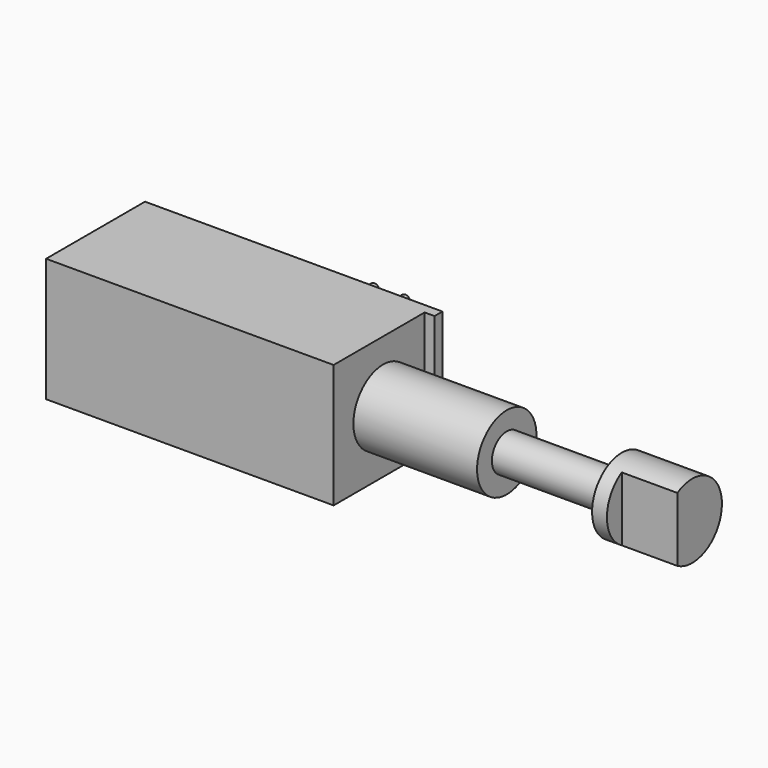
from build123d import *

# Parameters (mm, degrees)
POCKET_DEPTH = 4.5
BOX_W        = 23.25
BOX_H        = 10
BOX_DEPTH    = 10
SKETCH002_R  = 0.4
PAD_DEPTH    = 3.5
SKETCH003_W  = 0.8
SKETCH003_H  = 10
PAD001_DEPTH = 0.8


with BuildPart() as pocket:
    # Sketch → Revolution (revolve)
    with BuildSketch(Plane.XZ):
        Polygon((10, 3), (0, 3), (0, 0), (25, 0), (25, 3), (19.3, 3), (19.3, 1.5), (10, 1.5), align=None)
    revolve(axis=Axis((0, 0, 0), (1, 0, 0)))

    # Sketch001 → Pocket (cut)
    with BuildSketch(Plane(origin=(25, 0, 0), x_dir=(0, 0, 1), z_dir=(1, 0, 0))):
        with BuildLine():
            ThreePointArc((3, 1.5), (0, 4.499985), (-3, 1.5))
            Line((-3, 1.5), (3, 1.5))
        make_face()
    extrude(amount=-POCKET_DEPTH, mode=Mode.SUBTRACT)


with BuildPart() as fusion:
    # Box → Box (new body)
    with BuildSketch(Plane(origin=(-23.25, -5, -5), x_dir=(1, 0, 0), z_dir=(0, 0, 1))):
        with Locations((11.625, 5)):
            Rectangle(BOX_W, BOX_H)
    extrude(amount=BOX_DEPTH)

    # Sketch002 → Pad (new body)
    with BuildSketch(Plane(origin=(-23.25, 5, -5), x_dir=(-1, 0, 0), z_dir=(0, 1, 0))):
        with Locations((-18.25, 7.5)):
            Circle(SKETCH002_R)
        with Locations((-18.25, 5)):
            Circle(SKETCH002_R)
        with Locations((-18.25, 2.5)):
            Circle(SKETCH002_R)
        with Locations((-15.75, 7.5)):
            Circle(SKETCH002_R)
        with Locations((-15.75, 5)):
            Circle(SKETCH002_R)
        with Locations((-15.75, 2.5)):
            Circle(SKETCH002_R)
    extrude(amount=PAD_DEPTH)

    # Sketch003 → Pad001 (new body)
    with BuildSketch(Plane(origin=(0, -5, -5), x_dir=(0, 1, 0), z_dir=(1, 0, 0))):
        with Locations((9.6, 5)):
            Rectangle(SKETCH003_W, SKETCH003_H)
    extrude(amount=PAD001_DEPTH)

    # Fusion: union Pocket
    add(pocket.part)


solid = fusion.part
